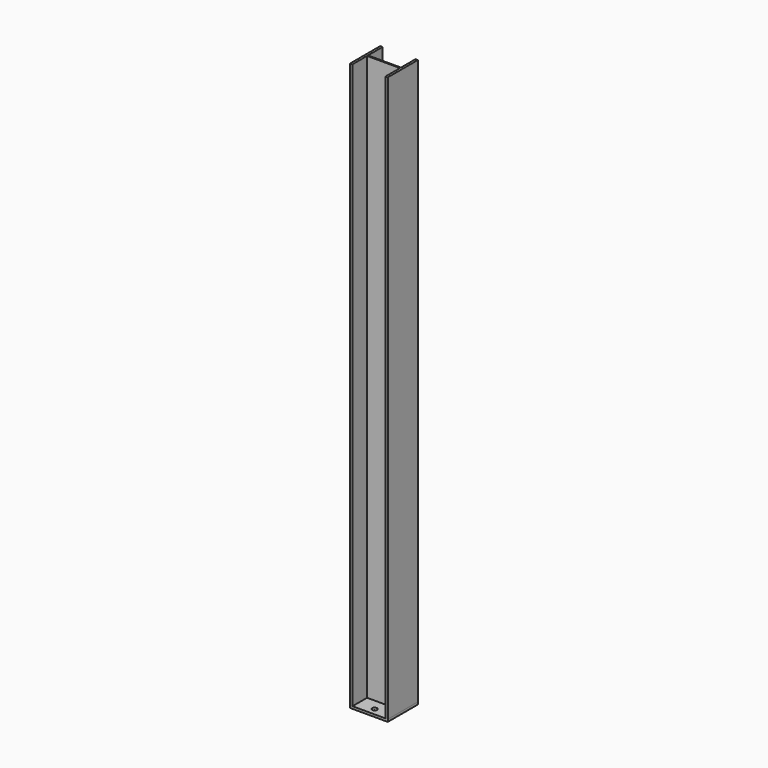
from build123d import *

# Parameters (mm, degrees)
F0_W     = 203.2
F0_H     = 203.2
F0_R     = 13.49375
F1_DEPTH = 12.7
F3_DEPTH = 3048


with BuildPart() as f1:
    # F0 (on Top) → F1 (new body)
    with BuildSketch(Plane.XY):
        Rectangle(F0_W, F0_H)
        with Locations((0, -63.5)):
            Circle(F0_R, mode=Mode.SUBTRACT)
        with Locations((0, 63.5)):
            Circle(F0_R, mode=Mode.SUBTRACT)
    extrude(amount=F1_DEPTH)


with BuildPart() as f3:
    # F2 (on face) → F3 (new body)
    with BuildSketch(Plane.XY.offset(12.7)):
        Polygon((-88.9, 101.6), (-101.6, 101.6), (-101.6, -101.6), (-88.9, -101.6), (-88.9, -3.175), (88.9, -3.175), (88.9, -101.6), (101.6, -101.6), (101.6, 101.6), (88.9, 101.6), (88.9, 3.175), (-88.9, 3.175), align=None)
    extrude(amount=F3_DEPTH)


solid = Compound([f1.part, f3.part])
